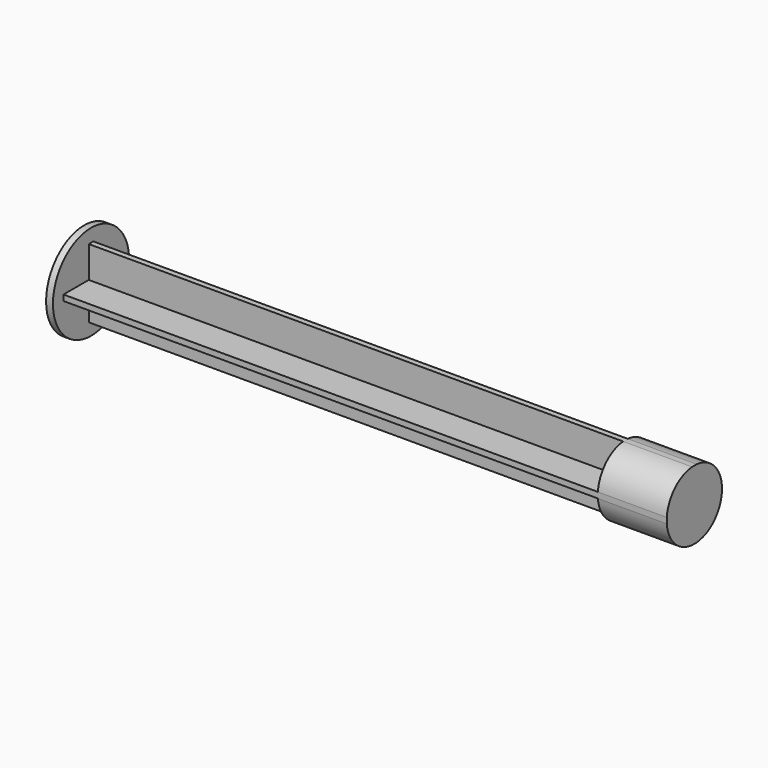
from build123d import *

# Parameters (mm, degrees)
F0_W     = 1
F0_H     = 5.5
F0_H_2   = 1
F0_W_2   = 5.5
F1_DEPTH = 93.07
F3_DEPTH = 12
F4_R     = 8.29
F5_DEPTH = 1
F6_DEPTH = 1.2
F7_DEPTH = 1.2


with BuildPart() as f1:
    # F0 (on Right) → F1 (new body)
    with BuildSketch(Plane.YZ):
        with Locations((0, 3.25)):
            Rectangle(F0_W, F0_H)
        Rectangle(F0_W, F0_H_2)
        with Locations((3.25, 0)):
            Rectangle(F0_W_2, F0_H_2)
        with Locations((-3.25, 0)):
            Rectangle(F0_W_2, F0_H_2)
        with Locations((0, -3.25)):
            Rectangle(F0_W, F0_H)
    extrude(amount=F1_DEPTH)

    # F2 (on face) → F3 (join)
    with BuildSketch(Plane.YZ.offset(93.07)):
        with BuildLine():
            ThreePointArc((-6, -0.5), (-4.2573465915, -4.2573465915), (-0.5, -6))
            Line((-0.5, -6), (-0.5, -0.5))
            Line((-0.5, -0.5), (-6, -0.5))
        make_face()
        with BuildLine():
            ThreePointArc((0.5, -6), (4.2573465915, -4.2573465915), (6, -0.5))
            Line((6, -0.5), (0.5, -0.5))
            Line((0.5, -0.5), (0.5, -6))
        make_face()
        Polygon((6, -0.5), (6, 0.5), (0.5, 0.5), (0.5, 6), (-0.5, 6), (-0.5, 0.5), (-6, 0.5), (-6, -0.5), (-0.5, -0.5), (-0.5, -6), (0.5, -6), (0.5, -0.5), align=None)
        with BuildLine():
            Line((-0.5, 0.5), (-0.5, 6))
            ThreePointArc((-0.5, 6), (-4.2573465915, 4.2573465915), (-6, 0.5))
            Line((-6, 0.5), (-0.5, 0.5))
        make_face()
        with BuildLine():
            Line((0.5, 0.5), (6, 0.5))
            ThreePointArc((6, 0.5), (4.2573465915, 4.2573465915), (0.5, 6))
            Line((0.5, 6), (0.5, 0.5))
        make_face()
    extrude(amount=F3_DEPTH)

    # F4 (on face) → F5 (join)
    with BuildSketch(Plane(origin=(0, 0, 0), x_dir=(0, -1, 0), z_dir=(-1, 0, 0))):
        Circle(F4_R)
        Polygon((-0.5, 6), (0.5, 6), (0.5, 0.5), (6, 0.5), (6, -0.5), (0.5, -0.5), (0.5, -6), (-0.5, -6), (-0.5, -0.5), (-6, -0.5), (-6, 0.5), (-0.5, 0.5), align=None, mode=Mode.SUBTRACT)
        Circle(F4_R)
        Polygon((-0.5, 6), (0.5, 6), (0.5, 0.5), (6, 0.5), (6, -0.5), (0.5, -0.5), (0.5, -6), (-0.5, -6), (-0.5, -0.5), (-6, -0.5), (-6, 0.5), (-0.5, 0.5), align=None, mode=Mode.SUBTRACT)
        Polygon((0.5, 0.5), (0.5, 6), (-0.5, 6), (-0.5, 0.5), (-6, 0.5), (-6, -0.5), (-0.5, -0.5), (-0.5, -6), (0.5, -6), (0.5, -0.5), (6, -0.5), (6, 0.5), align=None)
    extrude(amount=F5_DEPTH)

    # F4 (on face) → F6 (join)
    with BuildSketch(Plane(origin=(0, 0, 0), x_dir=(0, -1, 0), z_dir=(-1, 0, 0))):
        Circle(F4_R)
        Polygon((-0.5, 6), (0.5, 6), (0.5, 0.5), (6, 0.5), (6, -0.5), (0.5, -0.5), (0.5, -6), (-0.5, -6), (-0.5, -0.5), (-6, -0.5), (-6, 0.5), (-0.5, 0.5), align=None, mode=Mode.SUBTRACT)
    extrude(amount=F6_DEPTH)

    # F4 (on face) → F7 (join)
    with BuildSketch(Plane(origin=(0, 0, 0), x_dir=(0, -1, 0), z_dir=(-1, 0, 0))):
        Polygon((0.5, 0.5), (0.5, 6), (-0.5, 6), (-0.5, 0.5), (-6, 0.5), (-6, -0.5), (-0.5, -0.5), (-0.5, -6), (0.5, -6), (0.5, -0.5), (6, -0.5), (6, 0.5), align=None)
    extrude(amount=F7_DEPTH)


solid = f1.part
